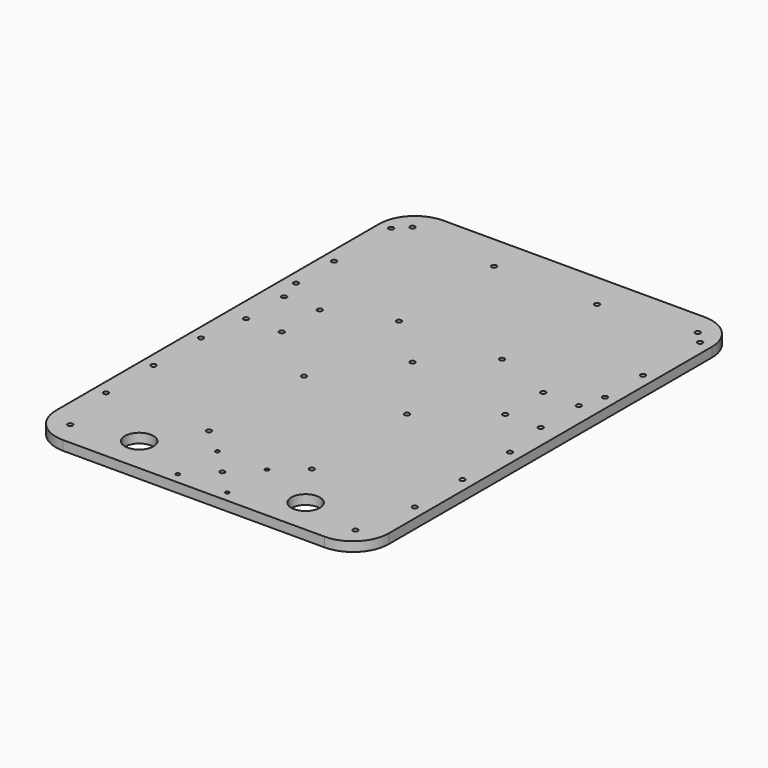
from build123d import *

# Parameters (mm, degrees)
CYLINDER021_R     = 2.1
CYLINDER021_DEPTH = 120
ARRAY020_X_COUNT  = 2
ARRAY020_X_PITCH  = 240
ARRAY020_Y_COUNT  = 2
ARRAY020_Y_PITCH  = 360
CYLINDER022_R     = 2.1
CYLINDER022_DEPTH = 110
ARRAY021_X_COUNT  = 2
ARRAY021_X_PITCH  = 260
ARRAY021_Y_COUNT  = 2
ARRAY021_Y_PITCH  = 190
CYLINDER038_R     = 2.1
CYLINDER038_DEPTH = 120
CYLINDER018_R     = 2.1
CYLINDER018_DEPTH = 120
ARRAY016_X_COUNT  = 2
ARRAY016_X_PITCH  = 30
ARRAY016_Y_COUNT  = 2
ARRAY016_Y_PITCH  = 40
ARRAY017_COUNT    = 2
CYLINDER016_R     = 2
CYLINDER016_DEPTH = 120
CYLINDER017_R     = 1.6
CYLINDER017_DEPTH = 110
ARRAY015_COUNT    = 4
CYLINDER032_R     = 2.1
CYLINDER032_DEPTH = 110
ARRAY031_X_COUNT  = 4
ARRAY031_X_PITCH  = 86.6667
ARRAY031_Y_COUNT  = 4
ARRAY031_Y_PITCH  = 100
CYLINDER031_R     = 12
CYLINDER031_DEPTH = 50
ARRAY030_X_COUNT  = 2
ARRAY030_X_PITCH  = 140
BOX005_W          = 280
BOX005_H          = 400
BOX005_DEPTH      = 8
FILLET004_R       = 30


with BuildPart() as array020:
    # Cylinder021 → Cylinder021 (new body)
    with BuildSketch(Plane(origin=(20, -210, 0), x_dir=(1, 0, 0), z_dir=(0, 0, 1))):
        Circle(CYLINDER021_R)
    extrude(amount=CYLINDER021_DEPTH)

    # Array020 X: Array020 ×2


with BuildPart() as array020_1:
    add(array020.part)
    with Locations(*[(i * ARRAY020_X_PITCH, 0, 0) for i in range(1, ARRAY020_X_COUNT)]):
        add(array020.part)

    # Array020 Y: Array020 ×2


with BuildPart() as array020_2:
    add(array020_1.part)
    with Locations(*[(0, i * ARRAY020_Y_PITCH, 0) for i in range(1, ARRAY020_Y_COUNT)]):
        add(array020_1.part)


with BuildPart() as array021:
    # Cylinder022 → Cylinder022 (new body)
    with BuildSketch(Plane(origin=(10, -110, 0), x_dir=(1, 0, 0), z_dir=(0, 0, 1))):
        Circle(CYLINDER022_R)
    extrude(amount=CYLINDER022_DEPTH)

    # Array021 X: Array021 ×2


with BuildPart() as array021_1:
    add(array021.part)
    with Locations(*[(i * ARRAY021_X_PITCH, 0, 0) for i in range(1, ARRAY021_X_COUNT)]):
        add(array021.part)

    # Array021 Y: Array021 ×2


with BuildPart() as array021_2:
    add(array021_1.part)
    with Locations(*[(0, i * ARRAY021_Y_PITCH, 0) for i in range(1, ARRAY021_Y_COUNT)]):
        add(array021_1.part)


with BuildPart() as cylinder038:
    # Cylinder038 → Cylinder038 (new body)
    with BuildSketch(Plane(origin=(140, 0, 0), x_dir=(1, 0, 0), z_dir=(0, 0, 1))):
        Circle(CYLINDER038_R)
    extrude(amount=CYLINDER038_DEPTH)


with BuildPart() as obj1:
    # Cylinder018 → Cylinder018 (new body)
    with BuildSketch(Plane(origin=(16, -20, 0), x_dir=(1, 0, 0), z_dir=(0, 0, 1))):
        Circle(CYLINDER018_R)
    extrude(amount=CYLINDER018_DEPTH)

    # Array016 X: obj1_2


with BuildPart() as obj1_1:
    add(obj1.part)
    with Locations(*[(i * ARRAY016_X_PITCH, 0, 0) for i in range(1, ARRAY016_X_COUNT)]):
        add(obj1.part)

    # Array016 Y: obj1_2


with BuildPart() as obj1_2:
    add(obj1_1.part)
    with Locations(*[(0, i * ARRAY016_Y_PITCH, 0) for i in range(1, ARRAY016_Y_COUNT)]):
        add(obj1_1.part)

    # Array017: obj1_2 about axis
    array017_axis = Axis((140, 0, 0), (0, 0, 1))


with BuildPart() as obj1_3:
    add(obj1_2.part)
    for i in range(1, ARRAY017_COUNT):
        add(obj1_2.part.rotate(array017_axis, i * 360 / ARRAY017_COUNT))

    # Fusion009: union Array020, Array021, Cylinder038
    add(array020_2.part)
    add(array021_2.part)
    add(cylinder038.part)


with BuildPart() as cylinder016:
    # Cylinder016 → Cylinder016 (new body)
    with BuildSketch(Plane(origin=(140, -200, 0), x_dir=(1, 0, 0), z_dir=(0, 0, 1))):
        Circle(CYLINDER016_R)
    extrude(amount=CYLINDER016_DEPTH)


with BuildPart() as fusion003:
    # Cylinder017 → Cylinder017 (new body)
    with BuildSketch(Plane(origin=(160.85965, -179.14035, 0), x_dir=(1, 0, 0), z_dir=(0, 0, 1))):
        Circle(CYLINDER017_R)
    extrude(amount=CYLINDER017_DEPTH)

    # Array015: Fusion003 ×4 about axis
    array015_axis = Axis((140, -200, 0), (0, 0, 1))


with BuildPart() as fusion003_1:
    add(fusion003.part)
    for i in range(1, ARRAY015_COUNT):
        add(fusion003.part.rotate(array015_axis, i * 360 / ARRAY015_COUNT))

    # Fusion003: union Cylinder016
    add(cylinder016.part)


with BuildPart() as fix_top_c9:
    # Cylinder032 → Cylinder032 (new body)
    with BuildSketch(Plane(origin=(10, -160, 0), x_dir=(1, 0, 0), z_dir=(0, 0, 1))):
        Circle(CYLINDER032_R)
    extrude(amount=CYLINDER032_DEPTH)

    # Array031 X: fix_top_C9_ ×4


with BuildPart() as fix_top_c9_1:
    add(fix_top_c9.part)
    with Locations(*[(i * ARRAY031_X_PITCH, 0, 0) for i in range(1, ARRAY031_X_COUNT)]):
        add(fix_top_c9.part)

    # Array031 Y: fix_top_C9_ ×4


with BuildPart() as fix_top_c9_2:
    add(fix_top_c9_1.part)
    with Locations(*[(0, i * ARRAY031_Y_PITCH, 0) for i in range(1, ARRAY031_Y_COUNT)]):
        add(fix_top_c9_1.part)


with BuildPart() as fusion010:
    # Cylinder031 → Cylinder031 (new body)
    with BuildSketch(Plane(origin=(70, -200, 70), x_dir=(1, 0, 0), z_dir=(0, 0, 1))):
        Circle(CYLINDER031_R)
    extrude(amount=CYLINDER031_DEPTH)

    # Array030 X: Fusion010 ×2


with BuildPart() as fusion010_1:
    add(fusion010.part)
    with Locations(*[(i * ARRAY030_X_PITCH, 0, 0) for i in range(1, ARRAY030_X_COUNT)]):
        add(fusion010.part)

    # Fusion010: union obj1_, Fusion003, fix_top_C9_
    add(obj1_3.part)
    add(fusion003_1.part)
    add(fix_top_c9_2.part)


with BuildPart() as cut002006002:
    # Box005 → Box005 (new body)
    with BuildSketch(Plane(origin=(0, -230, 87), x_dir=(1, 0, 0), z_dir=(0, 0, 1))):
        with Locations((140, 200)):
            Rectangle(BOX005_W, BOX005_H)
    extrude(amount=BOX005_DEPTH)

    # Fillet004
    fillet004_edges = [cut002006002.edges().sort_by_distance(p)[0] for p in [
        (0, -230, 91),
        (0, 170, 91),
        (280, -230, 91),
        (280, 170, 91),
    ]]
    fillet(fillet004_edges, radius=FILLET004_R)

    # Cut002006002: cut Fusion010
    add(fusion010_1.part, mode=Mode.SUBTRACT)


solid = cut002006002.part
